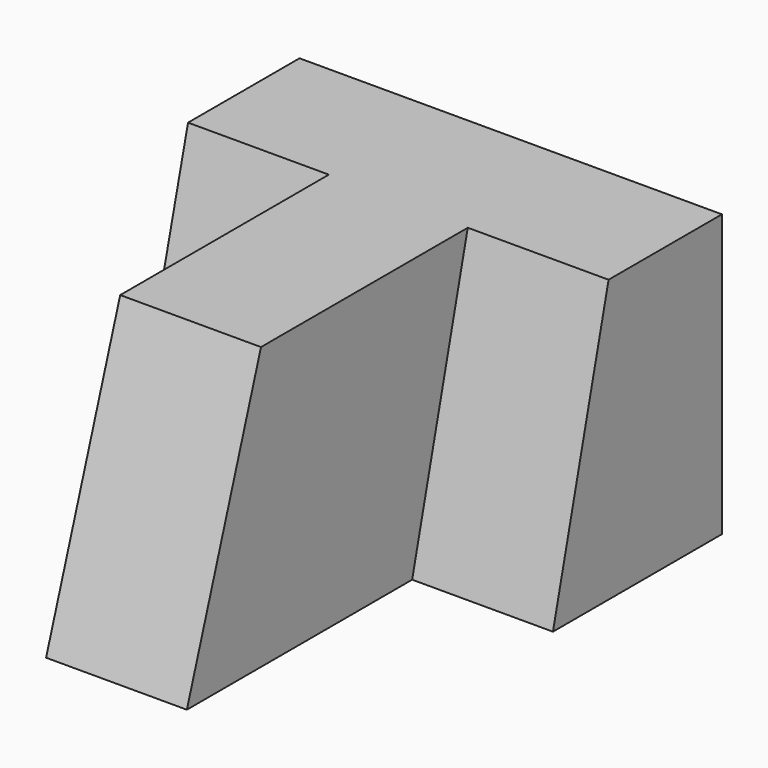
from build123d import *

# Parameters (mm, degrees)
F1_DEPTH = 25.4
F3_DEPTH = 25.4
F6_DEPTH = 12.7
F7_DEPTH = 12.7


with BuildPart() as f1:
    # F0 (on Top) → F1 (new body)
    with BuildSketch(Plane.XY):
        Polygon((0, 25.4), (0, 0), (12.7, 0), (12.7, 25.4), (25.4, 25.4), (25.4, 44.45), (-12.7, 44.45), (-12.7, 25.4), align=None)
    extrude(amount=F1_DEPTH)

    # F2 (on face) → F3 (cut)
    with BuildSketch(Plane(origin=(0, 0, 0), x_dir=(0, -1, 0), z_dir=(-1, 0, 0))):
        Polygon((-8.356945, 25.4), (0, 0), (0, 25.4), align=None)
    extrude(amount=-F3_DEPTH, mode=Mode.SUBTRACT)

    # F5 (on face) → F6 (cut)
    with BuildSketch(Plane.YZ.offset(25.4)):
        Polygon((25.4, 0), (31.670947, 25.4), (25.4, 25.4), align=None)
    extrude(amount=-F6_DEPTH, mode=Mode.SUBTRACT)

    # F4 (on face) → F7 (cut)
    with BuildSketch(Plane(origin=(-12.7, 0, 0), x_dir=(0, -1, 0), z_dir=(-1, 0, 0))):
        Polygon((-31.880192, 25.4), (-25.4, 0), (-25.4, 25.4), align=None)
    extrude(amount=-F7_DEPTH, mode=Mode.SUBTRACT)


solid = f1.part
